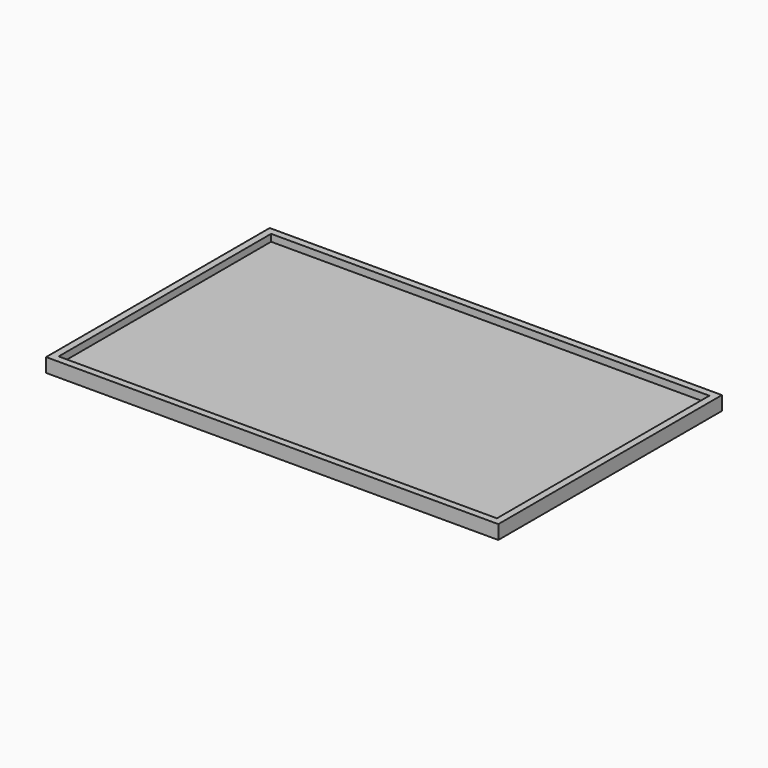
from build123d import *

# Parameters (mm, degrees)
F0_W     = 129.44272
F0_H     = 80
F1_DEPTH = 2
F2_W     = 129.44272
F2_H     = 80
F2_W_2   = 125.44272
F2_H_2   = 76
F3_DEPTH = 2


with BuildPart() as f1:
    # F0 (on Top) → F1 (new body)
    with BuildSketch(Plane.XY):
        Rectangle(F0_W, F0_H)
    extrude(amount=-F1_DEPTH)

    # F2 (on Top) → F3 (join)
    with BuildSketch(Plane.XY):
        Rectangle(F2_W, F2_H)
        Rectangle(F2_W_2, F2_H_2, mode=Mode.SUBTRACT)
    extrude(amount=F3_DEPTH)


solid = f1.part
